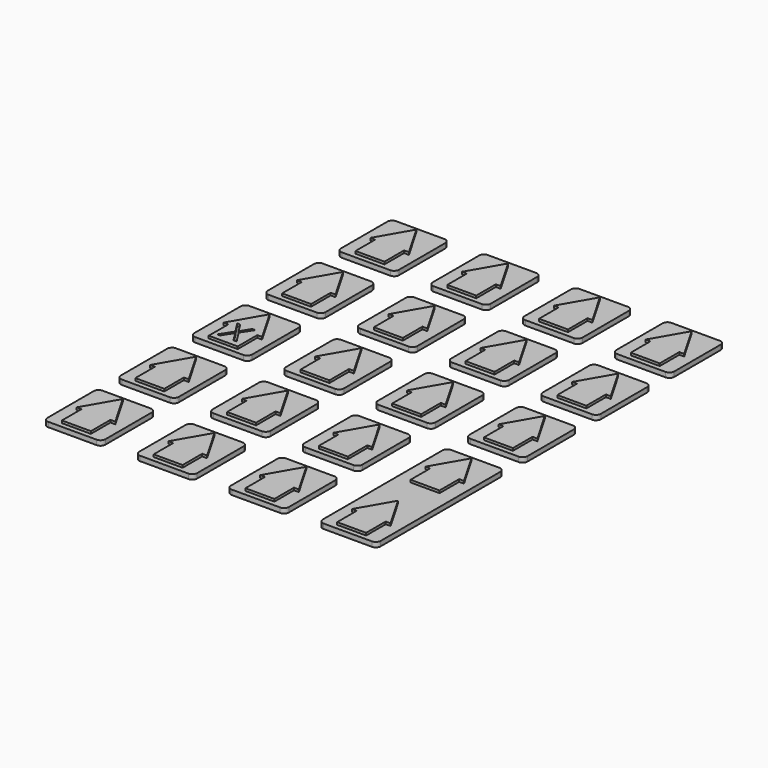
from build123d import *

# Parameters (mm, degrees)
F1_DEPTH = 1
F3_DEPTH = 1.5


with BuildPart() as f1:
    # F0 (on Top) → F1 (new body)
    with BuildSketch(Plane.XY):
        with BuildLine():
            Line((-5, -7), (5, -7))
            ThreePointArc((5, -7), (5.7071067812, -6.7071067812), (6, -6))
            Line((6, -6), (6, 6))
            ThreePointArc((6, 6), (5.7071067812, 6.7071067812), (5, 7))
            Line((5, 7), (-5, 7))
            ThreePointArc((-5, 7), (-5.7071067812, 6.7071067812), (-6, 6))
            Line((-6, 6), (-6, -6))
            ThreePointArc((-6, -6), (-5.7071067812, -6.7071067812), (-5, -7))
        make_face()
    extrude(amount=F1_DEPTH)


with BuildPart() as f1b:
    # F0 (on Top) → F1, piece 2 (new body)
    with BuildSketch(Plane.XY):
        with BuildLine():
            ThreePointArc((5, 12), (5.7071067812, 12.2928932188), (6, 13))
            Line((6, 13), (6, 25))
            ThreePointArc((6, 25), (5.7071067812, 25.7071067812), (5, 26))
            Line((5, 26), (-5, 26))
            ThreePointArc((-5, 26), (-5.7071067812, 25.7071067812), (-6, 25))
            Line((-6, 25), (-6, 13))
            ThreePointArc((-6, 13), (-5.7071067812, 12.2928932188), (-5, 12))
            Line((-5, 12), (5, 12))
        make_face()
    extrude(amount=F1_DEPTH)


with BuildPart() as f1c:
    # F0 (on Top) → F1, piece 3 (new body)
    with BuildSketch(Plane.XY):
        with BuildLine():
            ThreePointArc((5, 31), (5.7071067812, 31.2928932188), (6, 32))
            Line((6, 32), (6, 44))
            ThreePointArc((6, 44), (5.7071067812, 44.7071067812), (5, 45))
            Line((5, 45), (-5, 45))
            ThreePointArc((-5, 45), (-5.7071067812, 44.7071067812), (-6, 44))
            Line((-6, 44), (-6, 32))
            ThreePointArc((-6, 32), (-5.7071067812, 31.2928932188), (-5, 31))
            Line((-5, 31), (5, 31))
        make_face()
    extrude(amount=F1_DEPTH)


with BuildPart() as f1d:
    # F0 (on Top) → F1, piece 4 (new body)
    with BuildSketch(Plane.XY):
        with BuildLine():
            ThreePointArc((5, 50), (5.7071067812, 50.2928932188), (6, 51))
            Line((6, 51), (6, 63))
            ThreePointArc((6, 63), (5.7071067812, 63.7071067812), (5, 64))
            Line((5, 64), (-5, 64))
            ThreePointArc((-5, 64), (-5.7071067812, 63.7071067812), (-6, 63))
            Line((-6, 63), (-6, 51))
            ThreePointArc((-6, 51), (-5.7071067812, 50.2928932188), (-5, 50))
            Line((-5, 50), (5, 50))
        make_face()
    extrude(amount=F1_DEPTH)


with BuildPart() as f1e:
    # F0 (on Top) → F1, piece 5 (new body)
    with BuildSketch(Plane.XY):
        with BuildLine():
            ThreePointArc((5, 69), (5.7071067812, 69.2928932188), (6, 70))
            Line((6, 70), (6, 82))
            ThreePointArc((6, 82), (5.7071067812, 82.7071067812), (5, 83))
            Line((5, 83), (-5, 83))
            ThreePointArc((-5, 83), (-5.7071067812, 82.7071067812), (-6, 82))
            Line((-6, 82), (-6, 70))
            ThreePointArc((-6, 70), (-5.7071067812, 69.2928932188), (-5, 69))
            Line((-5, 69), (5, 69))
        make_face()
    extrude(amount=F1_DEPTH)


with BuildPart() as f1f:
    # F0 (on Top) → F1, piece 6 (new body)
    with BuildSketch(Plane.XY):
        with BuildLine():
            ThreePointArc((24, -7), (24.7071067812, -6.7071067812), (25, -6))
            Line((25, -6), (25, 6))
            ThreePointArc((25, 6), (24.7071067812, 6.7071067812), (24, 7))
            Line((24, 7), (14, 7))
            ThreePointArc((14, 7), (13.2928932188, 6.7071067812), (13, 6))
            Line((13, 6), (13, -6))
            ThreePointArc((13, -6), (13.2928932188, -6.7071067812), (14, -7))
            Line((14, -7), (24, -7))
        make_face()
    extrude(amount=F1_DEPTH)


with BuildPart() as f1g:
    # F0 (on Top) → F1, piece 7 (new body)
    with BuildSketch(Plane.XY):
        with BuildLine():
            ThreePointArc((24, 12), (24.7071067812, 12.2928932188), (25, 13))
            Line((25, 13), (25, 25))
            ThreePointArc((25, 25), (24.7071067812, 25.7071067812), (24, 26))
            Line((24, 26), (14, 26))
            ThreePointArc((14, 26), (13.2928932188, 25.7071067812), (13, 25))
            Line((13, 25), (13, 13))
            ThreePointArc((13, 13), (13.2928932188, 12.2928932188), (14, 12))
            Line((14, 12), (24, 12))
        make_face()
    extrude(amount=F1_DEPTH)


with BuildPart() as f1h:
    # F0 (on Top) → F1, piece 8 (new body)
    with BuildSketch(Plane.XY):
        with BuildLine():
            ThreePointArc((24, 31), (24.7071067812, 31.2928932188), (25, 32))
            Line((25, 32), (25, 44))
            ThreePointArc((25, 44), (24.7071067812, 44.7071067812), (24, 45))
            Line((24, 45), (14, 45))
            ThreePointArc((14, 45), (13.2928932188, 44.7071067812), (13, 44))
            Line((13, 44), (13, 32))
            ThreePointArc((13, 32), (13.2928932188, 31.2928932188), (14, 31))
            Line((14, 31), (24, 31))
        make_face()
    extrude(amount=F1_DEPTH)


with BuildPart() as f1i:
    # F0 (on Top) → F1, piece 9 (new body)
    with BuildSketch(Plane.XY):
        with BuildLine():
            ThreePointArc((24, 50), (24.7071067812, 50.2928932188), (25, 51))
            Line((25, 51), (25, 63))
            ThreePointArc((25, 63), (24.7071067812, 63.7071067812), (24, 64))
            Line((24, 64), (14, 64))
            ThreePointArc((14, 64), (13.2928932188, 63.7071067812), (13, 63))
            Line((13, 63), (13, 51))
            ThreePointArc((13, 51), (13.2928932188, 50.2928932188), (14, 50))
            Line((14, 50), (24, 50))
        make_face()
    extrude(amount=F1_DEPTH)


with BuildPart() as f1j:
    # F0 (on Top) → F1, piece 10 (new body)
    with BuildSketch(Plane.XY):
        with BuildLine():
            ThreePointArc((24, 69), (24.7071067812, 69.2928932188), (25, 70))
            Line((25, 70), (25, 82))
            ThreePointArc((25, 82), (24.7071067812, 82.7071067812), (24, 83))
            Line((24, 83), (14, 83))
            ThreePointArc((14, 83), (13.2928932188, 82.7071067812), (13, 82))
            Line((13, 82), (13, 70))
            ThreePointArc((13, 70), (13.2928932188, 69.2928932188), (14, 69))
            Line((14, 69), (24, 69))
        make_face()
    extrude(amount=F1_DEPTH)


with BuildPart() as f1k:
    # F0 (on Top) → F1, piece 11 (new body)
    with BuildSketch(Plane.XY):
        with BuildLine():
            ThreePointArc((43, -7), (43.7071067812, -6.7071067812), (44, -6))
            Line((44, -6), (44, 6))
            ThreePointArc((44, 6), (43.7071067812, 6.7071067812), (43, 7))
            Line((43, 7), (33, 7))
            ThreePointArc((33, 7), (32.2928932188, 6.7071067812), (32, 6))
            Line((32, 6), (32, -6))
            ThreePointArc((32, -6), (32.2928932188, -6.7071067812), (33, -7))
            Line((33, -7), (43, -7))
        make_face()
    extrude(amount=F1_DEPTH)


with BuildPart() as f1l:
    # F0 (on Top) → F1, piece 12 (new body)
    with BuildSketch(Plane.XY):
        with BuildLine():
            ThreePointArc((43, 12), (43.7071067812, 12.2928932188), (44, 13))
            Line((44, 13), (44, 25))
            ThreePointArc((44, 25), (43.7071067812, 25.7071067812), (43, 26))
            Line((43, 26), (33, 26))
            ThreePointArc((33, 26), (32.2928932188, 25.7071067812), (32, 25))
            Line((32, 25), (32, 13))
            ThreePointArc((32, 13), (32.2928932188, 12.2928932188), (33, 12))
            Line((33, 12), (43, 12))
        make_face()
    extrude(amount=F1_DEPTH)


with BuildPart() as f1m:
    # F0 (on Top) → F1, piece 13 (new body)
    with BuildSketch(Plane.XY):
        with BuildLine():
            ThreePointArc((43, 31), (43.7071067812, 31.2928932188), (44, 32))
            Line((44, 32), (44, 44))
            ThreePointArc((44, 44), (43.7071067812, 44.7071067812), (43, 45))
            Line((43, 45), (33, 45))
            ThreePointArc((33, 45), (32.2928932188, 44.7071067812), (32, 44))
            Line((32, 44), (32, 32))
            ThreePointArc((32, 32), (32.2928932188, 31.2928932188), (33, 31))
            Line((33, 31), (43, 31))
        make_face()
    extrude(amount=F1_DEPTH)


with BuildPart() as f1n:
    # F0 (on Top) → F1, piece 14 (new body)
    with BuildSketch(Plane.XY):
        with BuildLine():
            ThreePointArc((43, 50), (43.7071067812, 50.2928932188), (44, 51))
            Line((44, 51), (44, 63))
            ThreePointArc((44, 63), (43.7071067812, 63.7071067812), (43, 64))
            Line((43, 64), (33, 64))
            ThreePointArc((33, 64), (32.2928932188, 63.7071067812), (32, 63))
            Line((32, 63), (32, 51))
            ThreePointArc((32, 51), (32.2928932188, 50.2928932188), (33, 50))
            Line((33, 50), (43, 50))
        make_face()
    extrude(amount=F1_DEPTH)


with BuildPart() as f1o:
    # F0 (on Top) → F1, piece 15 (new body)
    with BuildSketch(Plane.XY):
        with BuildLine():
            ThreePointArc((43, 69), (43.7071067812, 69.2928932188), (44, 70))
            Line((44, 70), (44, 82))
            ThreePointArc((44, 82), (43.7071067812, 82.7071067812), (43, 83))
            Line((43, 83), (33, 83))
            ThreePointArc((33, 83), (32.2928932188, 82.7071067812), (32, 82))
            Line((32, 82), (32, 70))
            ThreePointArc((32, 70), (32.2928932188, 69.2928932188), (33, 69))
            Line((33, 69), (43, 69))
        make_face()
    extrude(amount=F1_DEPTH)


with BuildPart() as f1p:
    # F0 (on Top) → F1, piece 16 (new body)
    with BuildSketch(Plane.XY):
        with BuildLine():
            Line((52, -7), (62, -7))
            ThreePointArc((62, -7), (62.7071067812, -6.7071067812), (63, -6))
            Line((63, -6), (63, 25))
            ThreePointArc((63, 25), (62.7071067812, 25.7071067812), (62, 26))
            Line((62, 26), (52, 26))
            ThreePointArc((52, 26), (51.2928932188, 25.7071067812), (51, 25))
            Line((51, 25), (51, -6))
            ThreePointArc((51, -6), (51.2928932188, -6.7071067812), (52, -7))
        make_face()
    extrude(amount=F1_DEPTH)


with BuildPart() as f1q:
    # F0 (on Top) → F1, piece 17 (new body)
    with BuildSketch(Plane.XY):
        with BuildLine():
            ThreePointArc((62, 31), (62.7071067812, 31.2928932188), (63, 32))
            Line((63, 32), (63, 44))
            ThreePointArc((63, 44), (62.7071067812, 44.7071067812), (62, 45))
            Line((62, 45), (52, 45))
            ThreePointArc((52, 45), (51.2928932188, 44.7071067812), (51, 44))
            Line((51, 44), (51, 32))
            ThreePointArc((51, 32), (51.2928932188, 31.2928932188), (52, 31))
            Line((52, 31), (62, 31))
        make_face()
    extrude(amount=F1_DEPTH)


with BuildPart() as f1r:
    # F0 (on Top) → F1, piece 18 (new body)
    with BuildSketch(Plane.XY):
        with BuildLine():
            ThreePointArc((62, 50), (62.7071067812, 50.2928932188), (63, 51))
            Line((63, 51), (63, 63))
            ThreePointArc((63, 63), (62.7071067812, 63.7071067812), (62, 64))
            Line((62, 64), (52, 64))
            ThreePointArc((52, 64), (51.2928932188, 63.7071067812), (51, 63))
            Line((51, 63), (51, 51))
            ThreePointArc((51, 51), (51.2928932188, 50.2928932188), (52, 50))
            Line((52, 50), (62, 50))
        make_face()
    extrude(amount=F1_DEPTH)


with BuildPart() as f1s:
    # F0 (on Top) → F1, piece 19 (new body)
    with BuildSketch(Plane.XY):
        with BuildLine():
            ThreePointArc((62, 69), (62.7071067812, 69.2928932188), (63, 70))
            Line((63, 70), (63, 82))
            ThreePointArc((63, 82), (62.7071067812, 82.7071067812), (62, 83))
            Line((62, 83), (52, 83))
            ThreePointArc((52, 83), (51.2928932188, 82.7071067812), (51, 82))
            Line((51, 82), (51, 70))
            ThreePointArc((51, 70), (51.2928932188, 69.2928932188), (52, 69))
            Line((52, 69), (62, 69))
        make_face()
    extrude(amount=F1_DEPTH)


with BuildPart() as f3:
    # F2 (on Top) → F3 (new body)
    with BuildSketch(Plane.XY):
        Polygon((3, -6), (3, -0.9282032303), (4, -0.9282032303), (0, 6), (-4, -0.9282032303), (-3, -0.9282032303), (-3, -6), align=None)
    extrude(amount=F3_DEPTH)


with BuildPart() as f3b:
    # F2 (on Top) → F3, piece 2 (new body)
    with BuildSketch(Plane.XY):
        Polygon((0, 25), (-4, 18.0717967697), (-3, 18.0717967697), (-3, 13), (3, 13), (3, 18.0717967697), (4, 18.0717967697), align=None)
    extrude(amount=F3_DEPTH)


with BuildPart() as f3c:
    # F2 (on Top) → F3, piece 3 (new body)
    with BuildSketch(Plane.XY):
        Polygon((0, 44), (-4, 37.0717967697), (-3, 37.0717967697), (-3, 32), (3, 32), (3, 37.0717967697), (4, 37.0717967697), align=None)
        Polygon((0.1123898139, 35.8720089554), (1.7927277179, 33.2209315802), (1.1283055828, 33.2209315802), (-0.2247796278, 35.4345701698), (-1.6021057786, 33.2209315802), (-2.222453477, 33.2209315802), (-0.5487267385, 35.8521754588), (-2.1089618022, 38.2553341268), (-1.4610675808, 38.2553341268), (-0.2115572968, 36.2609658603), (1.0489715965, 38.2553341268), (1.6715230167, 38.2553341268), align=None, mode=Mode.SUBTRACT)
    extrude(amount=F3_DEPTH)


with BuildPart() as f3d:
    # F2 (on Top) → F3, piece 4 (new body)
    with BuildSketch(Plane.XY):
        Polygon((0, 63), (-4, 56.0717967697), (-3, 56.0717967697), (-3, 51), (3, 51), (3, 56.0717967697), (4, 56.0717967697), align=None)
    extrude(amount=F3_DEPTH)


with BuildPart() as f3e:
    # F2 (on Top) → F3, piece 5 (new body)
    with BuildSketch(Plane.XY):
        Polygon((0, 82), (-4, 75.0717967697), (-3, 75.0717967697), (-3, 70), (3, 70), (3, 75.0717967697), (4, 75.0717967697), align=None)
    extrude(amount=F3_DEPTH)


with BuildPart() as f3f:
    # F2 (on Top) → F3, piece 6 (new body)
    with BuildSketch(Plane.XY):
        Polygon((19, 6), (15, -0.9282032303), (16, -0.9282032303), (16, -6), (22, -6), (22, -0.9282032303), (23, -0.9282032303), align=None)
    extrude(amount=F3_DEPTH)


with BuildPart() as f3g:
    # F2 (on Top) → F3, piece 7 (new body)
    with BuildSketch(Plane.XY):
        Polygon((19, 25), (15, 18.0717967697), (16, 18.0717967697), (16, 13), (22, 13), (22, 18.0717967697), (23, 18.0717967697), align=None)
    extrude(amount=F3_DEPTH)


with BuildPart() as f3h:
    # F2 (on Top) → F3, piece 8 (new body)
    with BuildSketch(Plane.XY):
        Polygon((19, 44), (15, 37.0717967697), (16, 37.0717967697), (16, 32), (22, 32), (22, 37.0717967697), (23, 37.0717967697), align=None)
    extrude(amount=F3_DEPTH)


with BuildPart() as f3i:
    # F2 (on Top) → F3, piece 9 (new body)
    with BuildSketch(Plane.XY):
        Polygon((19, 63), (15, 56.0717967697), (16, 56.0717967697), (16, 51), (22, 51), (22, 56.0717967697), (23, 56.0717967697), align=None)
    extrude(amount=F3_DEPTH)


with BuildPart() as f3j:
    # F2 (on Top) → F3, piece 10 (new body)
    with BuildSketch(Plane.XY):
        Polygon((19, 82), (15, 75.0717967697), (16, 75.0717967697), (16, 70), (22, 70), (22, 75.0717967697), (23, 75.0717967697), align=None)
    extrude(amount=F3_DEPTH)


with BuildPart() as f3k:
    # F2 (on Top) → F3, piece 11 (new body)
    with BuildSketch(Plane.XY):
        Polygon((38, 6), (34, -0.9282032303), (35, -0.9282032303), (35, -6), (41, -6), (41, -0.9282032303), (42, -0.9282032303), align=None)
    extrude(amount=F3_DEPTH)


with BuildPart() as f3l:
    # F2 (on Top) → F3, piece 12 (new body)
    with BuildSketch(Plane.XY):
        Polygon((38, 25), (34, 18.0717967697), (35, 18.0717967697), (35, 13), (41, 13), (41, 18.0717967697), (42, 18.0717967697), align=None)
    extrude(amount=F3_DEPTH)


with BuildPart() as f3m:
    # F2 (on Top) → F3, piece 13 (new body)
    with BuildSketch(Plane.XY):
        Polygon((38, 44), (34, 37.0717967697), (35, 37.0717967697), (35, 32), (41, 32), (41, 37.0717967697), (42, 37.0717967697), align=None)
    extrude(amount=F3_DEPTH)


with BuildPart() as f3n:
    # F2 (on Top) → F3, piece 14 (new body)
    with BuildSketch(Plane.XY):
        Polygon((38, 63), (34, 56.0717967697), (35, 56.0717967697), (35, 51), (41, 51), (41, 56.0717967697), (42, 56.0717967697), align=None)
    extrude(amount=F3_DEPTH)


with BuildPart() as f3o:
    # F2 (on Top) → F3, piece 15 (new body)
    with BuildSketch(Plane.XY):
        Polygon((38, 82), (34, 75.0717967697), (35, 75.0717967697), (35, 70), (41, 70), (41, 75.0717967697), (42, 75.0717967697), align=None)
    extrude(amount=F3_DEPTH)


with BuildPart() as f3p:
    # F2 (on Top) → F3, piece 16 (new body)
    with BuildSketch(Plane.XY):
        Polygon((57, 6), (53, -0.9282032303), (54, -0.9282032303), (54, -6), (60, -6), (60, -0.9282032303), (61, -0.9282032303), align=None)
    extrude(amount=F3_DEPTH)


with BuildPart() as f3q:
    # F2 (on Top) → F3, piece 17 (new body)
    with BuildSketch(Plane.XY):
        Polygon((57, 25), (53, 18.0717967697), (54, 18.0717967697), (54, 13), (60, 13), (60, 18.0717967697), (61, 18.0717967697), align=None)
    extrude(amount=F3_DEPTH)


with BuildPart() as f3r:
    # F2 (on Top) → F3, piece 18 (new body)
    with BuildSketch(Plane.XY):
        Polygon((57, 44), (53, 37.0717967697), (54, 37.0717967697), (54, 32), (60, 32), (60, 37.0717967697), (61, 37.0717967697), align=None)
    extrude(amount=F3_DEPTH)


with BuildPart() as f3s:
    # F2 (on Top) → F3, piece 19 (new body)
    with BuildSketch(Plane.XY):
        Polygon((57, 63), (53, 56.0717967697), (54, 56.0717967697), (54, 51), (60, 51), (60, 56.0717967697), (61, 56.0717967697), align=None)
    extrude(amount=F3_DEPTH)


with BuildPart() as f3t:
    # F2 (on Top) → F3, piece 20 (new body)
    with BuildSketch(Plane.XY):
        Polygon((57, 82), (53, 75.0717967697), (54, 75.0717967697), (54, 70), (60, 70), (60, 75.0717967697), (61, 75.0717967697), align=None)
    extrude(amount=F3_DEPTH)


solid = Compound([f1.part, f1b.part, f1c.part, f1d.part, f1e.part, f1f.part, f1g.part, f1h.part, f1i.part, f1j.part, f1k.part, f1l.part, f1m.part, f1n.part, f1o.part, f1p.part, f1q.part, f1r.part, f1s.part, f3.part, f3b.part, f3c.part, f3d.part, f3e.part, f3f.part, f3g.part, f3h.part, f3i.part, f3j.part, f3k.part, f3l.part, f3m.part, f3n.part, f3o.part, f3p.part, f3q.part, f3r.part, f3s.part, f3t.part])
